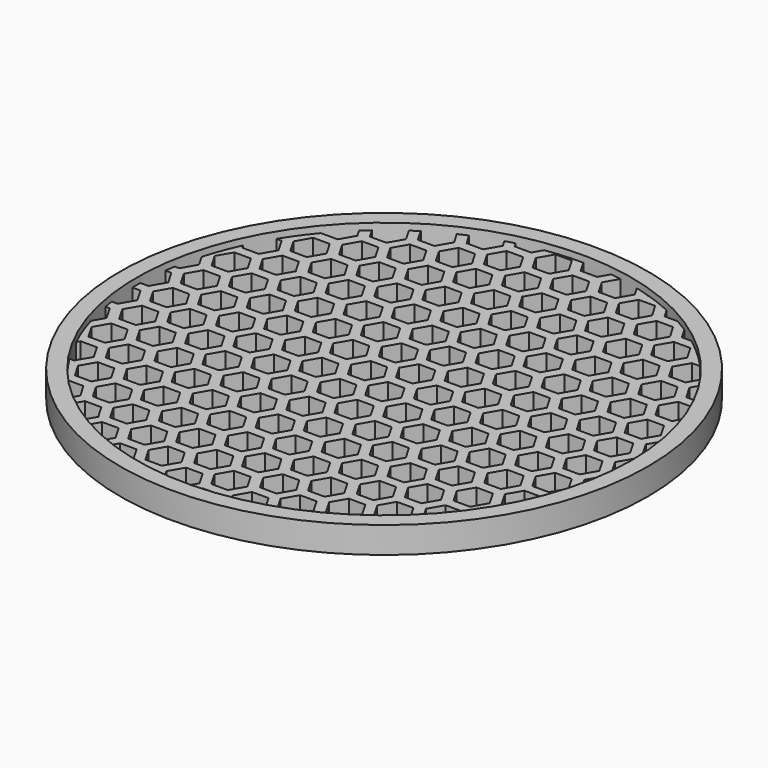
from build123d import *

# Parameters (mm, degrees)
F1_DEPTH = 3.81
F2_R     = 50.8
F2_R_2   = 47.625
F3_DEPTH = 5.08


with BuildPart() as f1:
    # F0 (on Top) → F1 (new body)
    with BuildSketch(Plane.XY):
        with BuildLine():
            Line((4.7625, -45.453461314), (5.8108044437, -47.2691778722))
            ThreePointArc((5.8108044437, -47.2691778722), (6.8273571841, -47.133086244), (7.8407435865, -46.975135604))
            Line((7.8407435865, -46.975135604), (6.4122783942, -44.500961314))
            Line((6.4122783942, -44.500961314), (7.9997783942, -41.751330657))
            Line((7.9997783942, -41.751330657), (11.1747783942, -41.751330657))
            Line((11.1747783942, -41.751330657), (12.7622783942, -44.500961314))
            Line((12.7622783942, -44.500961314), (11.8187422557, -46.1352138447))
            ThreePointArc((11.8187422557, -46.1352138447), (15.87047753, -44.9028792837), (19.7967178064, -43.3154774774))
            Line((19.7967178064, -43.3154774774), (20.6997783942, -41.751330657))
            Line((20.6997783942, -41.751330657), (22.9121586362, -41.751330657))
            ThreePointArc((22.9121586362, -41.751330657), (24.4064422867, -40.8957968489), (25.8688228226, -39.9868057086))
            Line((25.8688228226, -39.9868057086), (26.9875, -38.0492))
            Line((26.9875, -38.0492), (28.6426081976, -38.0492))
            ThreePointArc((28.6426081976, -38.0492), (31.8777683097, -35.3828844583), (34.8659121234, -32.442391971))
            Line((34.8659121234, -32.442391971), (33.3997783942, -32.442391971))
            Line((33.3997783942, -32.442391971), (31.8122783942, -29.692761314))
            Line((31.8122783942, -29.692761314), (33.3997783942, -26.943130657))
            Line((33.3997783942, -26.943130657), (36.5747783942, -26.943130657))
            Line((36.5747783942, -26.943130657), (37.7688370048, -29.0113008378))
            ThreePointArc((37.7688370048, -29.0113008378), (38.358388663, -28.2271968884), (38.9316645509, -27.4311159141))
            Line((38.9316645509, -27.4311159141), (38.1, -25.990630657))
            Line((38.1, -25.990630657), (39.6875, -23.241))
            Line((39.6875, -23.241), (41.5691778124, -23.241))
            ThreePointArc((41.5691778124, -23.241), (42.0844588562, -22.2943703159), (42.578186454, -21.3363226281))
            Line((42.578186454, -21.3363226281), (39.6875, -21.3363226281))
            Line((39.6875, -21.3363226281), (38.1, -18.586691971))
            Line((38.1, -18.586691971), (39.6875, -15.837061314))
            Line((39.6875, -15.837061314), (42.8625, -15.837061314))
            Line((42.8625, -15.837061314), (44.1002204373, -17.980855997))
            ThreePointArc((44.1002204373, -17.980855997), (44.5501998754, -16.8350918043), (44.970417047, -15.6780807376))
            Line((44.970417047, -15.6780807376), (44.5122783942, -14.884561314))
            Line((44.5122783942, -14.884561314), (46.0133527581, -12.2846242499))
            ThreePointArc((46.0133527581, -12.2846242499), (46.2747429703, -11.2600527543), (46.513322218, -10.229930657))
            Line((46.513322218, -10.229930657), (46.0997783942, -10.229930657))
            Line((46.0997783942, -10.229930657), (44.5122783942, -7.4803))
            Line((44.5122783942, -7.4803), (46.0997783942, -4.730669343))
            Line((46.0997783942, -4.730669343), (47.3894649956, -4.730669343))
            ThreePointArc((47.3894649956, -4.730669343), (47.4748259142, -3.7790910834), (47.5410811234, -2.825991971))
            Line((47.5410811234, -2.825991971), (46.0997783942, -2.825991971))
            Line((46.0997783942, -2.825991971), (44.5122783942, -0.076361314))
            Line((44.5122783942, -0.076361314), (46.0997783942, 2.673269343))
            Line((46.0997783942, 2.673269343), (47.5499133124, 2.673269343))
            ThreePointArc((47.5499133124, 2.673269343), (47.4867258336, 3.6264989462), (47.4044309619, 4.578269343))
            Line((47.4044309619, 4.578269343), (46.0997783942, 4.578269343))
            Line((46.0997783942, 4.578269343), (44.5122783942, 7.3279))
            Line((44.5122783942, 7.3279), (46.0997783942, 10.077530657))
            Line((46.0997783942, 10.077530657), (46.5465788309, 10.077530657))
            ThreePointArc((46.5465788309, 10.077530657), (46.3270446692, 11.0428962332), (46.0874913175, 12.0034898702))
            Line((46.0874913175, 12.0034898702), (44.5122783942, 14.731838686))
            Line((44.5122783942, 14.731838686), (45.0035440091, 15.582735691))
            ThreePointArc((45.0035440091, 15.582735691), (44.5850425589, 16.7425985147), (44.1366539742, 17.8912381059))
            Line((44.1366539742, 17.8912381059), (42.8625, 15.684338686))
            Line((42.8625, 15.684338686), (39.6875, 15.684338686))
            Line((39.6875, 15.684338686), (38.1, 18.433969343))
            Line((38.1, 18.433969343), (39.6875, 21.1836))
            Line((39.6875, 21.1836), (42.6543751102, 21.1836))
            ThreePointArc((42.6543751102, 21.1836), (42.1650418487, 22.1415869102), (41.6541963432, 23.0882773719))
            Line((41.6541963432, 23.0882773719), (39.6875, 23.0882773719))
            Line((39.6875, 23.0882773719), (38.1, 25.837908029))
            Line((38.1, 25.837908029), (38.9800868991, 27.3622632532))
            ThreePointArc((38.9800868991, 27.3622632532), (38.4077726621, 28.1599649172), (37.8191366158, 28.9456996916))
            Line((37.8191366158, 28.9456996916), (36.5747783942, 26.790408029))
            Line((36.5747783942, 26.790408029), (33.3997783942, 26.790408029))
            Line((33.3997783942, 26.790408029), (31.8122783942, 29.540038686))
            Line((31.8122783942, 29.540038686), (33.3997783942, 32.289669343))
            Line((33.3997783942, 32.289669343), (35.0073974857, 32.289669343))
            ThreePointArc((35.0073974857, 32.289669343), (32.0487300459, 35.2281070659), (28.844369083, 37.8964773719))
            Line((28.844369083, 37.8964773719), (26.9875, 37.8964773719))
            Line((26.9875, 37.8964773719), (25.7284013819, 40.0773001502))
            ThreePointArc((25.7284013819, 40.0773001502), (24.4701671329, 40.8576987297), (23.1882822791, 41.598608029))
            Line((23.1882822791, 41.598608029), (20.6997783942, 41.598608029))
            Line((20.6997783942, 41.598608029), (19.6770931952, 43.3699507538))
            ThreePointArc((19.6770931952, 43.3699507538), (17.2138306974, 44.4052323237), (14.6963838922, 45.300738686))
            Line((14.6963838922, 45.300738686), (14.2875, 45.300738686))
            Line((14.2875, 45.300738686), (14.1954313494, 45.4602062666))
            ThreePointArc((14.1954313494, 45.4602062666), (12.9601343453, 45.827672238), (11.7153464602, 46.1615779877))
            Line((11.7153464602, 46.1615779877), (12.7622783942, 44.348238686))
            Line((12.7622783942, 44.348238686), (11.1747783942, 41.598608029))
            Line((11.1747783942, 41.598608029), (7.9997783942, 41.598608029))
            Line((7.9997783942, 41.598608029), (6.4122783942, 44.348238686))
            Line((6.4122783942, 44.348238686), (7.9211305527, 46.9616472855))
            ThreePointArc((7.9211305527, 46.9616472855), (6.9087132804, 47.1212298843), (5.8930963411, 47.2589889917))
            Line((5.8930963411, 47.2589889917), (4.7625, 45.300738686))
            Line((4.7625, 45.300738686), (1.5875, 45.300738686))
            Line((1.5875, 45.300738686), (0.2459537822, 47.6243648959))
            ThreePointArc((0.2459537822, 47.6243648959), (-3.3286002423, 47.5085365532), (-6.8843831047, 47.1247906549))
            Line((-6.8843831047, 47.1247906549), (-7.9375, 45.300738686))
            Line((-7.9375, 45.300738686), (-11.1125, 45.300738686))
            Line((-11.1125, 45.300738686), (-11.6229827104, 46.1849206767))
            ThreePointArc((-11.6229827104, 46.1849206767), (-12.5218850421, 45.9493527701), (-13.4160200907, 45.6962912054))
            Line((-13.4160200907, 45.6962912054), (-12.6377216058, 44.348238686))
            Line((-12.6377216058, 44.348238686), (-14.2252216058, 41.598608029))
            Line((-14.2252216058, 41.598608029), (-17.4002216058, 41.598608029))
            Line((-17.4002216058, 41.598608029), (-18.6769447183, 43.809957327))
            ThreePointArc((-18.6769447183, 43.809957327), (-19.5538146096, 43.425671661), (-20.4227826265, 43.0238372858))
            Line((-20.4227826265, 43.0238372858), (-19.05, 40.646108029))
            Line((-19.05, 40.646108029), (-20.6375, 37.8964773719))
            Line((-20.6375, 37.8964773719), (-23.8125, 37.8964773719))
            Line((-23.8125, 37.8964773719), (-25.2475044384, 40.3819779683))
            ThreePointArc((-25.2475044384, 40.3819779683), (-26.0059511963, 39.8977584254), (-26.7551140149, 39.3992956669))
            Line((-26.7551140149, 39.3992956669), (-25.3377216058, 36.9443))
            Line((-25.3377216058, 36.9443), (-26.9252216058, 34.194669343))
            Line((-26.9252216058, 34.194669343), (-30.1002216058, 34.194669343))
            Line((-30.1002216058, 34.194669343), (-31.154738082, 36.0211454571))
            ThreePointArc((-31.154738082, 36.0211454571), (-31.8848185596, 35.3765313509), (-32.6015646875, 34.7171226476))
            Line((-32.6015646875, 34.7171226476), (-31.75, 33.242169343))
            Line((-31.75, 33.242169343), (-33.3375, 30.492538686))
            Line((-33.3375, 30.492538686), (-36.5125, 30.492538686))
            Line((-36.5125, 30.492538686), (-36.5414928218, 30.5427557263))
            ThreePointArc((-36.5414928218, 30.5427557263), (-38.6772730404, 27.7886519133), (-40.6059236401, 24.885730657))
            Line((-40.6059236401, 24.885730657), (-39.6252216058, 24.885730657))
            Line((-39.6252216058, 24.885730657), (-38.0377216058, 22.1361))
            Line((-38.0377216058, 22.1361), (-39.6252216058, 19.386469343))
            Line((-39.6252216058, 19.386469343), (-42.8002216058, 19.386469343))
            Line((-42.8002216058, 19.386469343), (-43.191907323, 20.0648889058))
            ThreePointArc((-43.191907323, 20.0648889058), (-44.5959654021, 16.7134824275), (-45.7404213636, 13.2647833938))
            Line((-45.7404213636, 13.2647833938), (-44.45, 11.029708029))
            Line((-44.45, 11.029708029), (-46.0375, 8.2800773719))
            Line((-46.0375, 8.2800773719), (-46.8996902305, 8.2800773719))
            ThreePointArc((-46.8996902305, 8.2800773719), (-47.0576547425, 7.3292397378), (-47.1963441364, 6.3754))
            Line((-47.1963441364, 6.3754), (-46.0375, 6.3754))
            Line((-46.0375, 6.3754), (-44.45, 3.625769343))
            Line((-44.45, 3.625769343), (-46.0375, 0.876138686))
            Line((-46.0375, 0.876138686), (-47.6169403259, 0.876138686))
            ThreePointArc((-47.6169403259, 0.876138686), (-47.6249387571, -0.0763765909), (-47.6138852584, -1.028861314))
            Line((-47.6138852584, -1.028861314), (-46.0375, -1.028861314))
            Line((-46.0375, -1.028861314), (-44.45, -3.778491971))
            Line((-44.45, -3.778491971), (-46.0375, -6.5281226281))
            Line((-46.0375, -6.5281226281), (-47.1754622654, -6.5281226281))
            ThreePointArc((-47.1754622654, -6.5281226281), (-47.033608968, -7.4819952181), (-46.8724706961, -8.4328))
            Line((-46.8724706961, -8.4328), (-46.0375, -8.4328))
            Line((-46.0375, -8.4328), (-44.45, -11.182430657))
            Line((-44.45, -11.182430657), (-45.71085865, -13.3663019))
            ThreePointArc((-45.71085865, -13.3663019), (-44.5609869122, -16.8065186881), (-43.1526205671, -20.1492422485))
            Line((-43.1526205671, -20.1492422485), (-42.8002216058, -19.538869343))
            Line((-42.8002216058, -19.538869343), (-39.6252216058, -19.538869343))
            Line((-39.6252216058, -19.538869343), (-38.0377216058, -22.2885))
            Line((-38.0377216058, -22.2885), (-39.6252216058, -25.038130657))
            Line((-39.6252216058, -25.038130657), (-40.5121295195, -25.038130657))
            ThreePointArc((-40.5121295195, -25.038130657), (-38.5858351065, -27.9154787553), (-36.4555699996, -30.645261314))
            Line((-36.4555699996, -30.645261314), (-33.3375, -30.645261314))
            Line((-33.3375, -30.645261314), (-31.75, -33.394891971))
            Line((-31.75, -33.394891971), (-32.5443558954, -34.7707567412))
            ThreePointArc((-32.5443558954, -34.7707567412), (-31.8268381167, -35.4287030597), (-31.0960217385, -36.071845767))
            Line((-31.0960217385, -36.071845767), (-30.1002216058, -34.347069343))
            Line((-30.1002216058, -34.347069343), (-26.9252216058, -34.347069343))
            Line((-26.9252216058, -34.347069343), (-25.3377216058, -37.0967))
            Line((-25.3377216058, -37.0967), (-26.6918763309, -39.4421647851))
            ThreePointArc((-26.6918763309, -39.4421647851), (-25.9419116408, -39.9394272045), (-25.1826857941, -40.4224314112))
            Line((-25.1826857941, -40.4224314112), (-23.8125, -38.0492))
            Line((-23.8125, -38.0492), (-20.6375, -38.0492))
            Line((-20.6375, -38.0492), (-19.05, -40.798830657))
            Line((-19.05, -40.798830657), (-20.353544242, -43.056635514))
            ThreePointArc((-20.353544242, -43.056635514), (-19.483787724, -43.4571356733), (-18.6061550487, -43.8400686507))
            Line((-18.6061550487, -43.8400686507), (-17.4002216058, -41.751330657))
            Line((-17.4002216058, -41.751330657), (-14.2252216058, -41.751330657))
            Line((-14.2252216058, -41.751330657), (-12.6377216058, -44.500961314))
            Line((-12.6377216058, -44.500961314), (-13.34059204, -45.7183686172))
            ThreePointArc((-13.34059204, -45.7183686172), (-12.4456472358, -45.9700607992), (-11.5459600167, -46.204236086))
            Line((-11.5459600167, -46.204236086), (-11.1125, -45.453461314))
            Line((-11.1125, -45.453461314), (-7.9375, -45.453461314))
            Line((-7.9375, -45.453461314), (-6.9807430646, -47.1106129366))
            ThreePointArc((-6.9807430646, -47.1106129366), (-3.333044329, -47.5082249774), (0.3344395321, -47.6238257094))
            Line((0.3344395321, -47.6238257094), (1.5875, -45.453461314))
            Line((1.5875, -45.453461314), (4.7625, -45.453461314))
        make_face()
        Polygon((-31.75, -25.990630657), (-33.3375, -28.740261314), (-36.5125, -28.740261314), (-38.1, -25.990630657), (-36.5125, -23.241), (-33.3375, -23.241), align=None, mode=Mode.SUBTRACT)
        Polygon((-31.6877216058, -29.692761314), (-30.1002216058, -26.943130657), (-26.9252216058, -26.943130657), (-25.3377216058, -29.692761314), (-26.9252216058, -32.442391971), (-30.1002216058, -32.442391971), align=None, mode=Mode.SUBTRACT)
        Polygon((-6.2877216058, -44.500961314), (-4.7002216058, -41.751330657), (-1.5252216058, -41.751330657), (0.0622783942, -44.500961314), (-1.5252216058, -47.250591971), (-4.7002216058, -47.250591971), align=None, mode=Mode.SUBTRACT)
        Polygon((-6.35, -40.798830657), (-7.9375, -43.548461314), (-11.1125, -43.548461314), (-12.7, -40.798830657), (-11.1125, -38.0492), (-7.9375, -38.0492), align=None, mode=Mode.SUBTRACT)
        Polygon((-20.6375, -30.645261314), (-19.05, -33.394891971), (-20.6375, -36.1445226281), (-23.8125, -36.1445226281), (-25.4, -33.394891971), (-23.8125, -30.645261314), align=None, mode=Mode.SUBTRACT)
        Polygon((-17.4002216058, -39.846330657), (-18.9877216058, -37.0967), (-17.4002216058, -34.347069343), (-14.2252216058, -34.347069343), (-12.6377216058, -37.0967), (-14.2252216058, -39.846330657), align=None, mode=Mode.SUBTRACT)
        Polygon((-19.05, -25.990630657), (-20.6375, -28.740261314), (-23.8125, -28.740261314), (-25.4, -25.990630657), (-23.8125, -23.241), (-20.6375, -23.241), align=None, mode=Mode.SUBTRACT)
        Polygon((-18.9877216058, -29.692761314), (-17.4002216058, -26.943130657), (-14.2252216058, -26.943130657), (-12.6377216058, -29.692761314), (-14.2252216058, -32.442391971), (-17.4002216058, -32.442391971), align=None, mode=Mode.SUBTRACT)
        Polygon((-7.9375, -30.645261314), (-6.35, -33.394891971), (-7.9375, -36.1445226281), (-11.1125, -36.1445226281), (-12.7, -33.394891971), (-11.1125, -30.645261314), align=None, mode=Mode.SUBTRACT)
        Polygon((-4.7002216058, -39.846330657), (-6.2877216058, -37.0967), (-4.7002216058, -34.347069343), (-1.5252216058, -34.347069343), (0.0622783942, -37.0967), (-1.5252216058, -39.846330657), align=None, mode=Mode.SUBTRACT)
        Polygon((-6.35, -25.990630657), (-7.9375, -28.740261314), (-11.1125, -28.740261314), (-12.7, -25.990630657), (-11.1125, -23.241), (-7.9375, -23.241), align=None, mode=Mode.SUBTRACT)
        Polygon((-6.2877216058, -29.692761314), (-4.7002216058, -26.943130657), (-1.5252216058, -26.943130657), (0.0622783942, -29.692761314), (-1.5252216058, -32.442391971), (-4.7002216058, -32.442391971), align=None, mode=Mode.SUBTRACT)
        Polygon((-44.3877216058, -14.884561314), (-42.8002216058, -12.134930657), (-39.6252216058, -12.134930657), (-38.0377216058, -14.884561314), (-39.6252216058, -17.634191971), (-42.8002216058, -17.634191971), align=None, mode=Mode.SUBTRACT)
        Polygon((-33.3375, -15.837061314), (-31.75, -18.586691971), (-33.3375, -21.3363226281), (-36.5125, -21.3363226281), (-38.1, -18.586691971), (-36.5125, -15.837061314), align=None, mode=Mode.SUBTRACT)
        Polygon((-30.1002216058, -25.038130657), (-31.6877216058, -22.2885), (-30.1002216058, -19.538869343), (-26.9252216058, -19.538869343), (-25.3377216058, -22.2885), (-26.9252216058, -25.038130657), align=None, mode=Mode.SUBTRACT)
        Polygon((-31.6877216058, -14.884561314), (-30.1002216058, -12.134930657), (-26.9252216058, -12.134930657), (-25.3377216058, -14.884561314), (-26.9252216058, -17.634191971), (-30.1002216058, -17.634191971), align=None, mode=Mode.SUBTRACT)
        Polygon((-42.8002216058, -10.229930657), (-44.3877216058, -7.4803), (-42.8002216058, -4.730669343), (-39.6252216058, -4.730669343), (-38.0377216058, -7.4803), (-39.6252216058, -10.229930657), align=None, mode=Mode.SUBTRACT)
        Polygon((-44.3877216058, -0.076361314), (-42.8002216058, 2.673269343), (-39.6252216058, 2.673269343), (-38.0377216058, -0.076361314), (-39.6252216058, -2.825991971), (-42.8002216058, -2.825991971), align=None, mode=Mode.SUBTRACT)
        Polygon((-31.75, -11.182430657), (-33.3375, -13.932061314), (-36.5125, -13.932061314), (-38.1, -11.182430657), (-36.5125, -8.4328), (-33.3375, -8.4328), align=None, mode=Mode.SUBTRACT)
        Polygon((-30.1002216058, -10.229930657), (-31.6877216058, -7.4803), (-30.1002216058, -4.730669343), (-26.9252216058, -4.730669343), (-25.3377216058, -7.4803), (-26.9252216058, -10.229930657), align=None, mode=Mode.SUBTRACT)
        Polygon((-33.3375, -1.028861314), (-31.75, -3.778491971), (-33.3375, -6.5281226281), (-36.5125, -6.5281226281), (-38.1, -3.778491971), (-36.5125, -1.028861314), align=None, mode=Mode.SUBTRACT)
        Polygon((-31.6877216058, -0.076361314), (-30.1002216058, 2.673269343), (-26.9252216058, 2.673269343), (-25.3377216058, -0.076361314), (-26.9252216058, -2.825991971), (-30.1002216058, -2.825991971), align=None, mode=Mode.SUBTRACT)
        Polygon((-20.6375, -15.837061314), (-19.05, -18.586691971), (-20.6375, -21.3363226281), (-23.8125, -21.3363226281), (-25.4, -18.586691971), (-23.8125, -15.837061314), align=None, mode=Mode.SUBTRACT)
        Polygon((-17.4002216058, -25.038130657), (-18.9877216058, -22.2885), (-17.4002216058, -19.538869343), (-14.2252216058, -19.538869343), (-12.6377216058, -22.2885), (-14.2252216058, -25.038130657), align=None, mode=Mode.SUBTRACT)
        Polygon((-18.9877216058, -14.884561314), (-17.4002216058, -12.134930657), (-14.2252216058, -12.134930657), (-12.6377216058, -14.884561314), (-14.2252216058, -17.634191971), (-17.4002216058, -17.634191971), align=None, mode=Mode.SUBTRACT)
        Polygon((-7.9375, -15.837061314), (-6.35, -18.586691971), (-7.9375, -21.3363226281), (-11.1125, -21.3363226281), (-12.7, -18.586691971), (-11.1125, -15.837061314), align=None, mode=Mode.SUBTRACT)
        Polygon((-4.7002216058, -25.038130657), (-6.2877216058, -22.2885), (-4.7002216058, -19.538869343), (-1.5252216058, -19.538869343), (0.0622783942, -22.2885), (-1.5252216058, -25.038130657), align=None, mode=Mode.SUBTRACT)
        Polygon((-6.2877216058, -14.884561314), (-4.7002216058, -12.134930657), (-1.5252216058, -12.134930657), (0.0622783942, -14.884561314), (-1.5252216058, -17.634191971), (-4.7002216058, -17.634191971), align=None, mode=Mode.SUBTRACT)
        Polygon((-19.05, -11.182430657), (-20.6375, -13.932061314), (-23.8125, -13.932061314), (-25.4, -11.182430657), (-23.8125, -8.4328), (-20.6375, -8.4328), align=None, mode=Mode.SUBTRACT)
        Polygon((-17.4002216058, -10.229930657), (-18.9877216058, -7.4803), (-17.4002216058, -4.730669343), (-14.2252216058, -4.730669343), (-12.6377216058, -7.4803), (-14.2252216058, -10.229930657), align=None, mode=Mode.SUBTRACT)
        Polygon((-20.6375, -1.028861314), (-19.05, -3.778491971), (-20.6375, -6.5281226281), (-23.8125, -6.5281226281), (-25.4, -3.778491971), (-23.8125, -1.028861314), align=None, mode=Mode.SUBTRACT)
        Polygon((-18.9877216058, -0.076361314), (-17.4002216058, 2.673269343), (-14.2252216058, 2.673269343), (-12.6377216058, -0.076361314), (-14.2252216058, -2.825991971), (-17.4002216058, -2.825991971), align=None, mode=Mode.SUBTRACT)
        Polygon((-6.35, -11.182430657), (-7.9375, -13.932061314), (-11.1125, -13.932061314), (-12.7, -11.182430657), (-11.1125, -8.4328), (-7.9375, -8.4328), align=None, mode=Mode.SUBTRACT)
        Polygon((-4.7002216058, -10.229930657), (-6.2877216058, -7.4803), (-4.7002216058, -4.730669343), (-1.5252216058, -4.730669343), (0.0622783942, -7.4803), (-1.5252216058, -10.229930657), align=None, mode=Mode.SUBTRACT)
        Polygon((-7.9375, -1.028861314), (-6.35, -3.778491971), (-7.9375, -6.5281226281), (-11.1125, -6.5281226281), (-12.7, -3.778491971), (-11.1125, -1.028861314), align=None, mode=Mode.SUBTRACT)
        Polygon((-6.2877216058, -0.076361314), (-4.7002216058, 2.673269343), (-1.5252216058, 2.673269343), (0.0622783942, -0.076361314), (-1.5252216058, -2.825991971), (-4.7002216058, -2.825991971), align=None, mode=Mode.SUBTRACT)
        Polygon((6.35, -40.798830657), (4.7625, -43.548461314), (1.5875, -43.548461314), (0, -40.798830657), (1.5875, -38.0492), (4.7625, -38.0492), align=None, mode=Mode.SUBTRACT)
        Polygon((19.05, -40.798830657), (17.4625, -43.548461314), (14.2875, -43.548461314), (12.7, -40.798830657), (14.2875, -38.0492), (17.4625, -38.0492), align=None, mode=Mode.SUBTRACT)
        Polygon((4.7625, -30.645261314), (6.35, -33.394891971), (4.7625, -36.1445226281), (1.5875, -36.1445226281), (0, -33.394891971), (1.5875, -30.645261314), align=None, mode=Mode.SUBTRACT)
        Polygon((7.9997783942, -39.846330657), (6.4122783942, -37.0967), (7.9997783942, -34.347069343), (11.1747783942, -34.347069343), (12.7622783942, -37.0967), (11.1747783942, -39.846330657), align=None, mode=Mode.SUBTRACT)
        Polygon((6.35, -25.990630657), (4.7625, -28.740261314), (1.5875, -28.740261314), (0, -25.990630657), (1.5875, -23.241), (4.7625, -23.241), align=None, mode=Mode.SUBTRACT)
        Polygon((6.4122783942, -29.692761314), (7.9997783942, -26.943130657), (11.1747783942, -26.943130657), (12.7622783942, -29.692761314), (11.1747783942, -32.442391971), (7.9997783942, -32.442391971), align=None, mode=Mode.SUBTRACT)
        Polygon((17.4625, -30.645261314), (19.05, -33.394891971), (17.4625, -36.1445226281), (14.2875, -36.1445226281), (12.7, -33.394891971), (14.2875, -30.645261314), align=None, mode=Mode.SUBTRACT)
        Polygon((20.6997783942, -39.846330657), (19.1122783942, -37.0967), (20.6997783942, -34.347069343), (23.8747783942, -34.347069343), (25.4622783942, -37.0967), (23.8747783942, -39.846330657), align=None, mode=Mode.SUBTRACT)
        Polygon((19.05, -25.990630657), (17.4625, -28.740261314), (14.2875, -28.740261314), (12.7, -25.990630657), (14.2875, -23.241), (17.4625, -23.241), align=None, mode=Mode.SUBTRACT)
        Polygon((19.1122783942, -29.692761314), (20.6997783942, -26.943130657), (23.8747783942, -26.943130657), (25.4622783942, -29.692761314), (23.8747783942, -32.442391971), (20.6997783942, -32.442391971), align=None, mode=Mode.SUBTRACT)
        Polygon((30.1625, -30.645261314), (31.75, -33.394891971), (30.1625, -36.1445226281), (26.9875, -36.1445226281), (25.4, -33.394891971), (26.9875, -30.645261314), align=None, mode=Mode.SUBTRACT)
        Polygon((31.75, -25.990630657), (30.1625, -28.740261314), (26.9875, -28.740261314), (25.4, -25.990630657), (26.9875, -23.241), (30.1625, -23.241), align=None, mode=Mode.SUBTRACT)
        Polygon((4.7625, -15.837061314), (6.35, -18.586691971), (4.7625, -21.3363226281), (1.5875, -21.3363226281), (0, -18.586691971), (1.5875, -15.837061314), align=None, mode=Mode.SUBTRACT)
        Polygon((7.9997783942, -25.038130657), (6.4122783942, -22.2885), (7.9997783942, -19.538869343), (11.1747783942, -19.538869343), (12.7622783942, -22.2885), (11.1747783942, -25.038130657), align=None, mode=Mode.SUBTRACT)
        Polygon((6.4122783942, -14.884561314), (7.9997783942, -12.134930657), (11.1747783942, -12.134930657), (12.7622783942, -14.884561314), (11.1747783942, -17.634191971), (7.9997783942, -17.634191971), align=None, mode=Mode.SUBTRACT)
        Polygon((17.4625, -15.837061314), (19.05, -18.586691971), (17.4625, -21.3363226281), (14.2875, -21.3363226281), (12.7, -18.586691971), (14.2875, -15.837061314), align=None, mode=Mode.SUBTRACT)
        Polygon((20.6997783942, -25.038130657), (19.1122783942, -22.2885), (20.6997783942, -19.538869343), (23.8747783942, -19.538869343), (25.4622783942, -22.2885), (23.8747783942, -25.038130657), align=None, mode=Mode.SUBTRACT)
        Polygon((19.1122783942, -14.884561314), (20.6997783942, -12.134930657), (23.8747783942, -12.134930657), (25.4622783942, -14.884561314), (23.8747783942, -17.634191971), (20.6997783942, -17.634191971), align=None, mode=Mode.SUBTRACT)
        Polygon((6.35, -11.182430657), (4.7625, -13.932061314), (1.5875, -13.932061314), (0, -11.182430657), (1.5875, -8.4328), (4.7625, -8.4328), align=None, mode=Mode.SUBTRACT)
        Polygon((7.9997783942, -10.229930657), (6.4122783942, -7.4803), (7.9997783942, -4.730669343), (11.1747783942, -4.730669343), (12.7622783942, -7.4803), (11.1747783942, -10.229930657), align=None, mode=Mode.SUBTRACT)
        Polygon((4.7625, -1.028861314), (6.35, -3.778491971), (4.7625, -6.5281226281), (1.5875, -6.5281226281), (0, -3.778491971), (1.5875, -1.028861314), align=None, mode=Mode.SUBTRACT)
        Polygon((6.4122783942, -0.076361314), (7.9997783942, 2.673269343), (11.1747783942, 2.673269343), (12.7622783942, -0.076361314), (11.1747783942, -2.825991971), (7.9997783942, -2.825991971), align=None, mode=Mode.SUBTRACT)
        Polygon((19.05, -11.182430657), (17.4625, -13.932061314), (14.2875, -13.932061314), (12.7, -11.182430657), (14.2875, -8.4328), (17.4625, -8.4328), align=None, mode=Mode.SUBTRACT)
        Polygon((20.6997783942, -10.229930657), (19.1122783942, -7.4803), (20.6997783942, -4.730669343), (23.8747783942, -4.730669343), (25.4622783942, -7.4803), (23.8747783942, -10.229930657), align=None, mode=Mode.SUBTRACT)
        Polygon((17.4625, -1.028861314), (19.05, -3.778491971), (17.4625, -6.5281226281), (14.2875, -6.5281226281), (12.7, -3.778491971), (14.2875, -1.028861314), align=None, mode=Mode.SUBTRACT)
        Polygon((19.1122783942, -0.076361314), (20.6997783942, 2.673269343), (23.8747783942, 2.673269343), (25.4622783942, -0.076361314), (23.8747783942, -2.825991971), (20.6997783942, -2.825991971), align=None, mode=Mode.SUBTRACT)
        Polygon((30.1625, -15.837061314), (31.75, -18.586691971), (30.1625, -21.3363226281), (26.9875, -21.3363226281), (25.4, -18.586691971), (26.9875, -15.837061314), align=None, mode=Mode.SUBTRACT)
        Polygon((33.3997783942, -25.038130657), (31.8122783942, -22.2885), (33.3997783942, -19.538869343), (36.5747783942, -19.538869343), (38.1622783942, -22.2885), (36.5747783942, -25.038130657), align=None, mode=Mode.SUBTRACT)
        Polygon((31.8122783942, -14.884561314), (33.3997783942, -12.134930657), (36.5747783942, -12.134930657), (38.1622783942, -14.884561314), (36.5747783942, -17.634191971), (33.3997783942, -17.634191971), align=None, mode=Mode.SUBTRACT)
        Polygon((31.75, -11.182430657), (30.1625, -13.932061314), (26.9875, -13.932061314), (25.4, -11.182430657), (26.9875, -8.4328), (30.1625, -8.4328), align=None, mode=Mode.SUBTRACT)
        Polygon((33.3997783942, -10.229930657), (31.8122783942, -7.4803), (33.3997783942, -4.730669343), (36.5747783942, -4.730669343), (38.1622783942, -7.4803), (36.5747783942, -10.229930657), align=None, mode=Mode.SUBTRACT)
        Polygon((30.1625, -1.028861314), (31.75, -3.778491971), (30.1625, -6.5281226281), (26.9875, -6.5281226281), (25.4, -3.778491971), (26.9875, -1.028861314), align=None, mode=Mode.SUBTRACT)
        Polygon((31.8122783942, -0.076361314), (33.3997783942, 2.673269343), (36.5747783942, 2.673269343), (38.1622783942, -0.076361314), (36.5747783942, -2.825991971), (33.3997783942, -2.825991971), align=None, mode=Mode.SUBTRACT)
        Polygon((44.45, -11.182430657), (42.8625, -13.932061314), (39.6875, -13.932061314), (38.1, -11.182430657), (39.6875, -8.4328), (42.8625, -8.4328), align=None, mode=Mode.SUBTRACT)
        Polygon((42.8625, -1.028861314), (44.45, -3.778491971), (42.8625, -6.5281226281), (39.6875, -6.5281226281), (38.1, -3.778491971), (39.6875, -1.028861314), align=None, mode=Mode.SUBTRACT)
        Polygon((-42.8002216058, 4.578269343), (-44.3877216058, 7.3279), (-42.8002216058, 10.077530657), (-39.6252216058, 10.077530657), (-38.0377216058, 7.3279), (-39.6252216058, 4.578269343), align=None, mode=Mode.SUBTRACT)
        Polygon((-44.3877216058, 14.731838686), (-42.8002216058, 17.481469343), (-39.6252216058, 17.481469343), (-38.0377216058, 14.731838686), (-39.6252216058, 11.982208029), (-42.8002216058, 11.982208029), align=None, mode=Mode.SUBTRACT)
        Polygon((-31.75, 3.625769343), (-33.3375, 0.876138686), (-36.5125, 0.876138686), (-38.1, 3.625769343), (-36.5125, 6.3754), (-33.3375, 6.3754), align=None, mode=Mode.SUBTRACT)
        Polygon((-30.1002216058, 4.578269343), (-31.6877216058, 7.3279), (-30.1002216058, 10.077530657), (-26.9252216058, 10.077530657), (-25.3377216058, 7.3279), (-26.9252216058, 4.578269343), align=None, mode=Mode.SUBTRACT)
        Polygon((-33.3375, 13.779338686), (-31.75, 11.029708029), (-33.3375, 8.2800773719), (-36.5125, 8.2800773719), (-38.1, 11.029708029), (-36.5125, 13.779338686), align=None, mode=Mode.SUBTRACT)
        Polygon((-31.6877216058, 14.731838686), (-30.1002216058, 17.481469343), (-26.9252216058, 17.481469343), (-25.3377216058, 14.731838686), (-26.9252216058, 11.982208029), (-30.1002216058, 11.982208029), align=None, mode=Mode.SUBTRACT)
        Polygon((-31.75, 18.433969343), (-33.3375, 15.684338686), (-36.5125, 15.684338686), (-38.1, 18.433969343), (-36.5125, 21.1836), (-33.3375, 21.1836), align=None, mode=Mode.SUBTRACT)
        Polygon((-33.3375, 28.587538686), (-31.75, 25.837908029), (-33.3375, 23.0882773719), (-36.5125, 23.0882773719), (-38.1, 25.837908029), (-36.5125, 28.587538686), align=None, mode=Mode.SUBTRACT)
        Polygon((-30.1002216058, 19.386469343), (-31.6877216058, 22.1361), (-30.1002216058, 24.885730657), (-26.9252216058, 24.885730657), (-25.3377216058, 22.1361), (-26.9252216058, 19.386469343), align=None, mode=Mode.SUBTRACT)
        Polygon((-19.05, 3.625769343), (-20.6375, 0.876138686), (-23.8125, 0.876138686), (-25.4, 3.625769343), (-23.8125, 6.3754), (-20.6375, 6.3754), align=None, mode=Mode.SUBTRACT)
        Polygon((-17.4002216058, 4.578269343), (-18.9877216058, 7.3279), (-17.4002216058, 10.077530657), (-14.2252216058, 10.077530657), (-12.6377216058, 7.3279), (-14.2252216058, 4.578269343), align=None, mode=Mode.SUBTRACT)
        Polygon((-20.6375, 13.779338686), (-19.05, 11.029708029), (-20.6375, 8.2800773719), (-23.8125, 8.2800773719), (-25.4, 11.029708029), (-23.8125, 13.779338686), align=None, mode=Mode.SUBTRACT)
        Polygon((-18.9877216058, 14.731838686), (-17.4002216058, 17.481469343), (-14.2252216058, 17.481469343), (-12.6377216058, 14.731838686), (-14.2252216058, 11.982208029), (-17.4002216058, 11.982208029), align=None, mode=Mode.SUBTRACT)
        Polygon((-6.35, 3.625769343), (-7.9375, 0.876138686), (-11.1125, 0.876138686), (-12.7, 3.625769343), (-11.1125, 6.3754), (-7.9375, 6.3754), align=None, mode=Mode.SUBTRACT)
        Polygon((-4.7002216058, 4.578269343), (-6.2877216058, 7.3279), (-4.7002216058, 10.077530657), (-1.5252216058, 10.077530657), (0.0622783942, 7.3279), (-1.5252216058, 4.578269343), align=None, mode=Mode.SUBTRACT)
        Polygon((-7.9375, 13.779338686), (-6.35, 11.029708029), (-7.9375, 8.2800773719), (-11.1125, 8.2800773719), (-12.7, 11.029708029), (-11.1125, 13.779338686), align=None, mode=Mode.SUBTRACT)
        Polygon((-6.2877216058, 14.731838686), (-4.7002216058, 17.481469343), (-1.5252216058, 17.481469343), (0.0622783942, 14.731838686), (-1.5252216058, 11.982208029), (-4.7002216058, 11.982208029), align=None, mode=Mode.SUBTRACT)
        Polygon((-19.05, 18.433969343), (-20.6375, 15.684338686), (-23.8125, 15.684338686), (-25.4, 18.433969343), (-23.8125, 21.1836), (-20.6375, 21.1836), align=None, mode=Mode.SUBTRACT)
        Polygon((-20.6375, 28.587538686), (-19.05, 25.837908029), (-20.6375, 23.0882773719), (-23.8125, 23.0882773719), (-25.4, 25.837908029), (-23.8125, 28.587538686), align=None, mode=Mode.SUBTRACT)
        Polygon((-17.4002216058, 19.386469343), (-18.9877216058, 22.1361), (-17.4002216058, 24.885730657), (-14.2252216058, 24.885730657), (-12.6377216058, 22.1361), (-14.2252216058, 19.386469343), align=None, mode=Mode.SUBTRACT)
        Polygon((-6.35, 18.433969343), (-7.9375, 15.684338686), (-11.1125, 15.684338686), (-12.7, 18.433969343), (-11.1125, 21.1836), (-7.9375, 21.1836), align=None, mode=Mode.SUBTRACT)
        Polygon((-7.9375, 28.587538686), (-6.35, 25.837908029), (-7.9375, 23.0882773719), (-11.1125, 23.0882773719), (-12.7, 25.837908029), (-11.1125, 28.587538686), align=None, mode=Mode.SUBTRACT)
        Polygon((-4.7002216058, 19.386469343), (-6.2877216058, 22.1361), (-4.7002216058, 24.885730657), (-1.5252216058, 24.885730657), (0.0622783942, 22.1361), (-1.5252216058, 19.386469343), align=None, mode=Mode.SUBTRACT)
        Polygon((-31.6877216058, 29.540038686), (-30.1002216058, 32.289669343), (-26.9252216058, 32.289669343), (-25.3377216058, 29.540038686), (-26.9252216058, 26.790408029), (-30.1002216058, 26.790408029), align=None, mode=Mode.SUBTRACT)
        Polygon((-19.05, 33.242169343), (-20.6375, 30.492538686), (-23.8125, 30.492538686), (-25.4, 33.242169343), (-23.8125, 35.9918), (-20.6375, 35.9918), align=None, mode=Mode.SUBTRACT)
        Polygon((-18.9877216058, 29.540038686), (-17.4002216058, 32.289669343), (-14.2252216058, 32.289669343), (-12.6377216058, 29.540038686), (-14.2252216058, 26.790408029), (-17.4002216058, 26.790408029), align=None, mode=Mode.SUBTRACT)
        Polygon((-17.4002216058, 34.194669343), (-18.9877216058, 36.9443), (-17.4002216058, 39.693930657), (-14.2252216058, 39.693930657), (-12.6377216058, 36.9443), (-14.2252216058, 34.194669343), align=None, mode=Mode.SUBTRACT)
        Polygon((-6.35, 33.242169343), (-7.9375, 30.492538686), (-11.1125, 30.492538686), (-12.7, 33.242169343), (-11.1125, 35.9918), (-7.9375, 35.9918), align=None, mode=Mode.SUBTRACT)
        Polygon((-6.2877216058, 29.540038686), (-4.7002216058, 32.289669343), (-1.5252216058, 32.289669343), (0.0622783942, 29.540038686), (-1.5252216058, 26.790408029), (-4.7002216058, 26.790408029), align=None, mode=Mode.SUBTRACT)
        Polygon((-7.9375, 43.395738686), (-6.35, 40.646108029), (-7.9375, 37.8964773719), (-11.1125, 37.8964773719), (-12.7, 40.646108029), (-11.1125, 43.395738686), align=None, mode=Mode.SUBTRACT)
        Polygon((-4.7002216058, 34.194669343), (-6.2877216058, 36.9443), (-4.7002216058, 39.693930657), (-1.5252216058, 39.693930657), (0.0622783942, 36.9443), (-1.5252216058, 34.194669343), align=None, mode=Mode.SUBTRACT)
        Polygon((-6.2877216058, 44.348238686), (-4.7002216058, 47.097869343), (-1.5252216058, 47.097869343), (0.0622783942, 44.348238686), (-1.5252216058, 41.598608029), (-4.7002216058, 41.598608029), align=None, mode=Mode.SUBTRACT)
        Polygon((6.35, 3.625769343), (4.7625, 0.876138686), (1.5875, 0.876138686), (0, 3.625769343), (1.5875, 6.3754), (4.7625, 6.3754), align=None, mode=Mode.SUBTRACT)
        Polygon((7.9997783942, 4.578269343), (6.4122783942, 7.3279), (7.9997783942, 10.077530657), (11.1747783942, 10.077530657), (12.7622783942, 7.3279), (11.1747783942, 4.578269343), align=None, mode=Mode.SUBTRACT)
        Polygon((4.7625, 13.779338686), (6.35, 11.029708029), (4.7625, 8.2800773719), (1.5875, 8.2800773719), (0, 11.029708029), (1.5875, 13.779338686), align=None, mode=Mode.SUBTRACT)
        Polygon((6.4122783942, 14.731838686), (7.9997783942, 17.481469343), (11.1747783942, 17.481469343), (12.7622783942, 14.731838686), (11.1747783942, 11.982208029), (7.9997783942, 11.982208029), align=None, mode=Mode.SUBTRACT)
        Polygon((19.05, 3.625769343), (17.4625, 0.876138686), (14.2875, 0.876138686), (12.7, 3.625769343), (14.2875, 6.3754), (17.4625, 6.3754), align=None, mode=Mode.SUBTRACT)
        Polygon((20.6997783942, 4.578269343), (19.1122783942, 7.3279), (20.6997783942, 10.077530657), (23.8747783942, 10.077530657), (25.4622783942, 7.3279), (23.8747783942, 4.578269343), align=None, mode=Mode.SUBTRACT)
        Polygon((17.4625, 13.779338686), (19.05, 11.029708029), (17.4625, 8.2800773719), (14.2875, 8.2800773719), (12.7, 11.029708029), (14.2875, 13.779338686), align=None, mode=Mode.SUBTRACT)
        Polygon((19.1122783942, 14.731838686), (20.6997783942, 17.481469343), (23.8747783942, 17.481469343), (25.4622783942, 14.731838686), (23.8747783942, 11.982208029), (20.6997783942, 11.982208029), align=None, mode=Mode.SUBTRACT)
        Polygon((6.35, 18.433969343), (4.7625, 15.684338686), (1.5875, 15.684338686), (0, 18.433969343), (1.5875, 21.1836), (4.7625, 21.1836), align=None, mode=Mode.SUBTRACT)
        Polygon((4.7625, 28.587538686), (6.35, 25.837908029), (4.7625, 23.0882773719), (1.5875, 23.0882773719), (0, 25.837908029), (1.5875, 28.587538686), align=None, mode=Mode.SUBTRACT)
        Polygon((7.9997783942, 19.386469343), (6.4122783942, 22.1361), (7.9997783942, 24.885730657), (11.1747783942, 24.885730657), (12.7622783942, 22.1361), (11.1747783942, 19.386469343), align=None, mode=Mode.SUBTRACT)
        Polygon((19.05, 18.433969343), (17.4625, 15.684338686), (14.2875, 15.684338686), (12.7, 18.433969343), (14.2875, 21.1836), (17.4625, 21.1836), align=None, mode=Mode.SUBTRACT)
        Polygon((17.4625, 28.587538686), (19.05, 25.837908029), (17.4625, 23.0882773719), (14.2875, 23.0882773719), (12.7, 25.837908029), (14.2875, 28.587538686), align=None, mode=Mode.SUBTRACT)
        Polygon((20.6997783942, 19.386469343), (19.1122783942, 22.1361), (20.6997783942, 24.885730657), (23.8747783942, 24.885730657), (25.4622783942, 22.1361), (23.8747783942, 19.386469343), align=None, mode=Mode.SUBTRACT)
        Polygon((31.75, 3.625769343), (30.1625, 0.876138686), (26.9875, 0.876138686), (25.4, 3.625769343), (26.9875, 6.3754), (30.1625, 6.3754), align=None, mode=Mode.SUBTRACT)
        Polygon((33.3997783942, 4.578269343), (31.8122783942, 7.3279), (33.3997783942, 10.077530657), (36.5747783942, 10.077530657), (38.1622783942, 7.3279), (36.5747783942, 4.578269343), align=None, mode=Mode.SUBTRACT)
        Polygon((30.1625, 13.779338686), (31.75, 11.029708029), (30.1625, 8.2800773719), (26.9875, 8.2800773719), (25.4, 11.029708029), (26.9875, 13.779338686), align=None, mode=Mode.SUBTRACT)
        Polygon((31.8122783942, 14.731838686), (33.3997783942, 17.481469343), (36.5747783942, 17.481469343), (38.1622783942, 14.731838686), (36.5747783942, 11.982208029), (33.3997783942, 11.982208029), align=None, mode=Mode.SUBTRACT)
        Polygon((44.45, 3.625769343), (42.8625, 0.876138686), (39.6875, 0.876138686), (38.1, 3.625769343), (39.6875, 6.3754), (42.8625, 6.3754), align=None, mode=Mode.SUBTRACT)
        Polygon((42.8625, 13.779338686), (44.45, 11.029708029), (42.8625, 8.2800773719), (39.6875, 8.2800773719), (38.1, 11.029708029), (39.6875, 13.779338686), align=None, mode=Mode.SUBTRACT)
        Polygon((31.75, 18.433969343), (30.1625, 15.684338686), (26.9875, 15.684338686), (25.4, 18.433969343), (26.9875, 21.1836), (30.1625, 21.1836), align=None, mode=Mode.SUBTRACT)
        Polygon((30.1625, 28.587538686), (31.75, 25.837908029), (30.1625, 23.0882773719), (26.9875, 23.0882773719), (25.4, 25.837908029), (26.9875, 28.587538686), align=None, mode=Mode.SUBTRACT)
        Polygon((33.3997783942, 19.386469343), (31.8122783942, 22.1361), (33.3997783942, 24.885730657), (36.5747783942, 24.885730657), (38.1622783942, 22.1361), (36.5747783942, 19.386469343), align=None, mode=Mode.SUBTRACT)
        Polygon((6.35, 33.242169343), (4.7625, 30.492538686), (1.5875, 30.492538686), (0, 33.242169343), (1.5875, 35.9918), (4.7625, 35.9918), align=None, mode=Mode.SUBTRACT)
        Polygon((6.4122783942, 29.540038686), (7.9997783942, 32.289669343), (11.1747783942, 32.289669343), (12.7622783942, 29.540038686), (11.1747783942, 26.790408029), (7.9997783942, 26.790408029), align=None, mode=Mode.SUBTRACT)
        Polygon((4.7625, 43.395738686), (6.35, 40.646108029), (4.7625, 37.8964773719), (1.5875, 37.8964773719), (0, 40.646108029), (1.5875, 43.395738686), align=None, mode=Mode.SUBTRACT)
        Polygon((7.9997783942, 34.194669343), (6.4122783942, 36.9443), (7.9997783942, 39.693930657), (11.1747783942, 39.693930657), (12.7622783942, 36.9443), (11.1747783942, 34.194669343), align=None, mode=Mode.SUBTRACT)
        Polygon((19.05, 33.242169343), (17.4625, 30.492538686), (14.2875, 30.492538686), (12.7, 33.242169343), (14.2875, 35.9918), (17.4625, 35.9918), align=None, mode=Mode.SUBTRACT)
        Polygon((19.1122783942, 29.540038686), (20.6997783942, 32.289669343), (23.8747783942, 32.289669343), (25.4622783942, 29.540038686), (23.8747783942, 26.790408029), (20.6997783942, 26.790408029), align=None, mode=Mode.SUBTRACT)
        Polygon((17.4625, 43.395738686), (19.05, 40.646108029), (17.4625, 37.8964773719), (14.2875, 37.8964773719), (12.7, 40.646108029), (14.2875, 43.395738686), align=None, mode=Mode.SUBTRACT)
        Polygon((20.6997783942, 34.194669343), (19.1122783942, 36.9443), (20.6997783942, 39.693930657), (23.8747783942, 39.693930657), (25.4622783942, 36.9443), (23.8747783942, 34.194669343), align=None, mode=Mode.SUBTRACT)
        Polygon((31.75, 33.242169343), (30.1625, 30.492538686), (26.9875, 30.492538686), (25.4, 33.242169343), (26.9875, 35.9918), (30.1625, 35.9918), align=None, mode=Mode.SUBTRACT)
    extrude(amount=F1_DEPTH)

    # F2 (on Top) → F3 (join)
    with BuildSketch(Plane.XY):
        Circle(F2_R)
        Circle(F2_R_2, mode=Mode.SUBTRACT)
    extrude(amount=F3_DEPTH)


solid = f1.part
